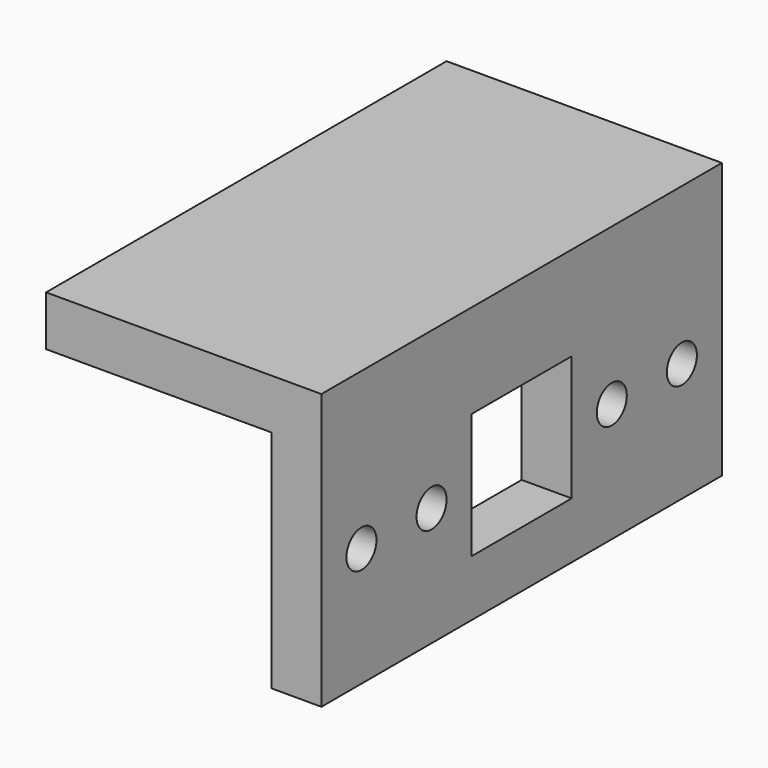
from build123d import *

# Parameters (mm, degrees)
BOX_W           = 22
BOX_H           = 40
BOX_DEPTH       = 22
SKETCH_W        = 18
SKETCH_H        = 18
POCKET_DEPTH    = 40.001
SKETCH001_W     = 10
SKETCH001_H     = 10
POCKET001_DEPTH = 4.001
SKETCH002_R     = 1.5
POCKET002_DEPTH = 22.001


with BuildPart() as part:
    # Box → Box (new body)
    with BuildSketch(Plane.XY):
        with Locations((11, 20)):
            Rectangle(BOX_W, BOX_H)
    extrude(amount=BOX_DEPTH)

    # Sketch → Pocket (cut, through all)
    with BuildSketch(Plane.XZ):
        with Locations((9, 9)):
            Rectangle(SKETCH_W, SKETCH_H)
    extrude(amount=-POCKET_DEPTH, mode=Mode.SUBTRACT)

    # Sketch001 → Pocket001 (cut, through all)
    with BuildSketch(Plane(origin=(18, 0, 0), x_dir=(0, -1, 0), z_dir=(-1, 0, 0))):
        with Locations((-20, 9.5)):
            Rectangle(SKETCH001_W, SKETCH001_H)
    extrude(amount=-POCKET001_DEPTH, mode=Mode.SUBTRACT)

    # Sketch002 → Pocket002 (cut, through all)
    with BuildSketch(Plane.YZ.offset(22)):
        with Locations((4, 9.5)):
            Circle(SKETCH002_R)
        with Locations((11, 9.5)):
            Circle(SKETCH002_R)
        with Locations((29, 9.5)):
            Circle(SKETCH002_R)
        with Locations((36, 9.5)):
            Circle(SKETCH002_R)
    extrude(amount=-POCKET002_DEPTH, mode=Mode.SUBTRACT)


solid = part.part
